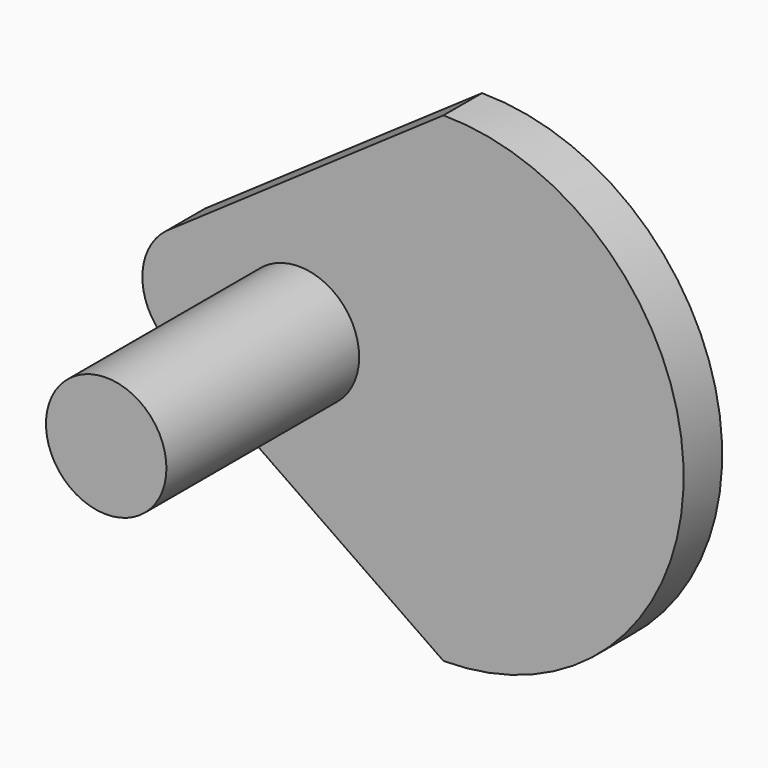
from build123d import *

# Parameters (mm, degrees)
F1_R     = 3.175
F2_DEPTH = 12.7
F4_DEPTH = 2.54


with BuildPart() as f2:
    # F1 (on Front) → F2 (new body)
    with BuildSketch(Plane.XZ):
        with Locations((-7.62, 0)):
            Circle(F1_R)
    extrude(amount=F2_DEPTH)

    # F3 (on Front) → F4 (join)
    with BuildSketch(Plane.XZ):
        with BuildLine():
            Line((-14.5955, -2.559695), (0, -12.660234))
            ThreePointArc((0, -12.660234), (12.660234, 0), (0, 12.660234))
            Line((0, 12.660234), (-14.5955, 2.559695))
            ThreePointArc((-14.5955, 2.559695), (-15.87429, 0), (-14.5955, -2.559695))
        make_face()
    extrude(amount=-F4_DEPTH)


solid = f2.part
